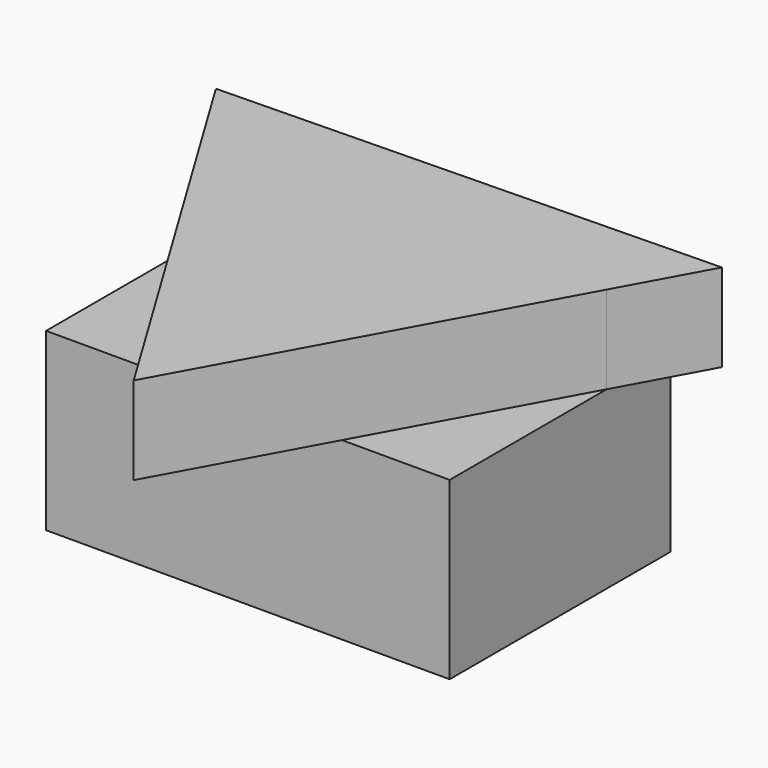
from build123d import *

# Parameters (mm, degrees)
F0_W     = 116.791695822
F0_H     = 79.9650549889
F1_DEPTH = 50.8
F3_DEPTH = 25.4


with BuildPart() as f1:
    # F0 (on Top) → F1 (new body)
    with BuildSketch(Plane.XY):
        with Locations((-0.9046609048, 1.5669167042)):
            Rectangle(F0_W, F0_H)
    extrude(amount=F1_DEPTH)

    # F2 (on face) → F3 (join)
    with BuildSketch(Plane.XY.offset(50.8)):
        Polygon((26.3261360564, -38.4156107903), (-25.3022870765, -38.4156107903), (1.8093218096, -83.0988883972), align=None)
        Polygon((-0.9046609047, 41.5494441986), (-59.3005088158, 40.2779845768), (-59.3005088158, 17.6176547568), (-25.3022870765, -38.4156107903), (26.3261360564, -38.4156107903), (57.4911870062, 18.3844534107), (57.4911870062, 41.5494441986), align=None)
        Polygon((71.0610874735, 43.1163628493), (-0.9046609047, 41.5494441986), (57.4911870062, 41.5494441986), (57.4911870062, 18.3844534107), align=None)
        Polygon((-59.3005088158, 40.2779845768), (-72.870409283, 39.9825255479), (-59.3005088158, 17.6176547568), align=None)
    extrude(amount=F3_DEPTH)


solid = f1.part
